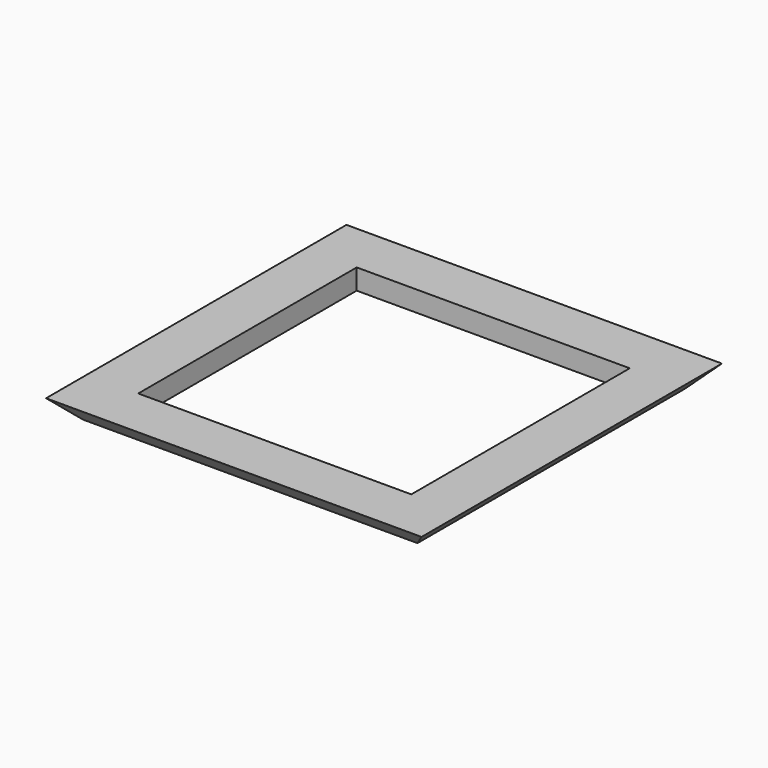
from build123d import *

# Parameters (mm, degrees)
SKETCH_W        = 110
SKETCH_H        = 110
PAD_DEPTH       = 6
POCKET_DEPTH    = 110
POCKET001_DEPTH = 110
SKETCH003_W     = 80
SKETCH003_H     = 80
POCKET002_DEPTH = 6


with BuildPart() as part:
    # Sketch → Pad (new body)
    with BuildSketch(Plane.XY):
        Rectangle(SKETCH_W, SKETCH_H)
    extrude(amount=PAD_DEPTH)

    # Sketch002 (on Face3 of Pad) → Pocket (cut)
    with BuildSketch(Plane.XZ.offset(55)):
        Polygon((55, 6), (55, 0), (49, 0), align=None)
        Polygon((-55, 6), (-55, 0), (-49, 0), align=None)
    extrude(amount=-POCKET_DEPTH, mode=Mode.SUBTRACT)

    # Sketch001 (on Face2 of Pad) → Pocket001 (cut)
    with BuildSketch(Plane.YZ.offset(55)):
        Polygon((55, 6), (55, 0), (49, 0), align=None)
        Polygon((-55, 6), (-55, 0), (-49, 0), align=None)
    extrude(amount=-POCKET001_DEPTH, mode=Mode.SUBTRACT)

    # Sketch003 (on Face1 of Pocket001) → Pocket002 (cut)
    with BuildSketch(Plane.XY.offset(6)):
        Rectangle(SKETCH003_W, SKETCH003_H)
    extrude(amount=-POCKET002_DEPTH, mode=Mode.SUBTRACT)


solid = part.part
